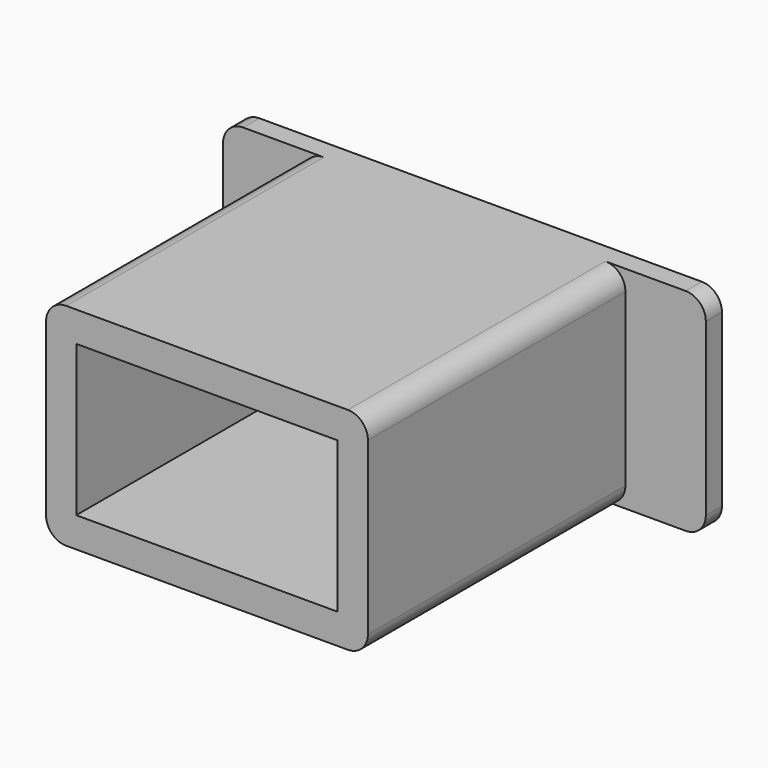
from build123d import *

# Parameters (mm, degrees)
F0_W     = 152.4
F0_H     = 66.675
F1_DEPTH = 6.35
F2_W     = 101.6
F2_H     = 66.675
F3_DEPTH = 101.6
F4_R     = 6.35
F5_W     = 82.55
F5_H     = 47.625
F6_DEPTH = 88.9


with BuildPart() as f1:
    # F0 (on Front) → F1 (new body)
    with BuildSketch(Plane.XZ):
        Rectangle(F0_W, F0_H)
    extrude(amount=-F1_DEPTH)

    # F2 (on face) → F3 (join)
    with BuildSketch(Plane.XZ):
        Rectangle(F2_W, F2_H)
    extrude(amount=F3_DEPTH)

    # F4
    f4_edges = [f1.edges().sort_by_distance(p)[0] for p in [
        (76.2, 3.175, 33.3375),
        (76.2, 3.175, -33.3375),
        (50.8, -50.8, 33.3375),
        (50.8, -50.8, -33.3375),
        (-76.2, 3.175, 33.3375),
        (-76.2, 3.175, -33.3375),
        (-50.8, -50.8, 33.3375),
        (-50.8, -50.8, -33.3375),
    ]]
    fillet(f4_edges, radius=F4_R)

    # F5 (on face) → F6 (cut)
    with BuildSketch(Plane.XZ.offset(101.6)):
        Rectangle(F5_W, F5_H)
    extrude(amount=-F6_DEPTH, mode=Mode.SUBTRACT)


solid = f1.part
